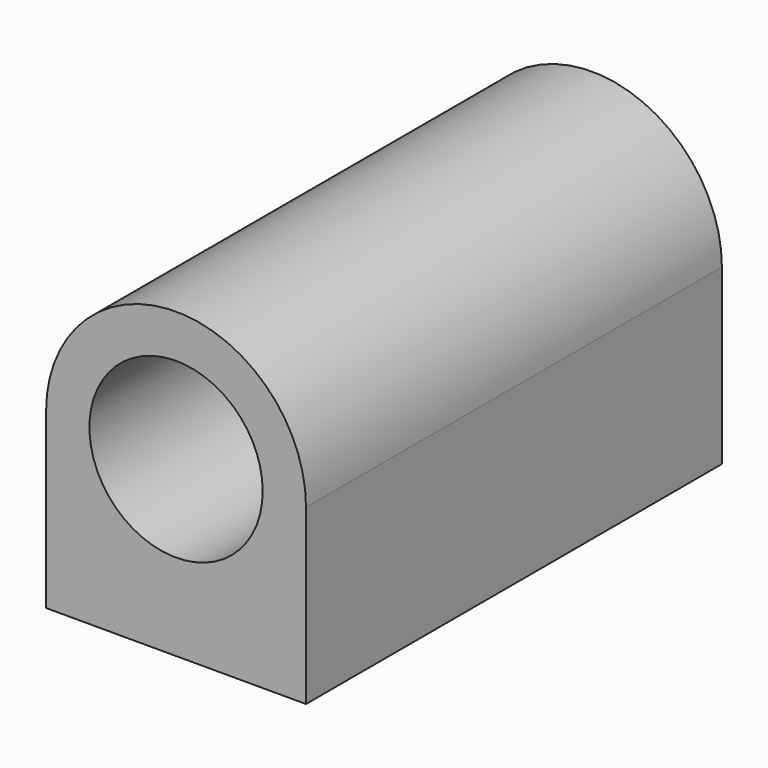
from build123d import *

# Parameters (mm, degrees)
F0_R     = 0.25
F1_DEPTH = 3
F2_R     = 0.065
F3_DEPTH = 0.5
F4_R     = 0.5
F5_DEPTH = 3.001


with BuildPart() as f1:
    # F0 (on Front) → F1 (new body)
    with BuildSketch(Plane.XZ):
        with BuildLine():
            Line((-0.75, 0), (0, 0))
            Line((0, 0), (0.75, 0))
            Line((0.75, 0), (0.75, 1))
            ThreePointArc((0.75, 1), (0, 1.75), (-0.75, 1))
            Line((-0.75, 1), (-0.75, 0))
        make_face()
        with Locations((0, 1)):
            Circle(F0_R, mode=Mode.SUBTRACT)
    extrude(amount=F1_DEPTH)

    # F2 (on face) → F3 (cut)
    with BuildSketch(Plane(origin=(0, 0, 0), x_dir=(1, 0, 0), z_dir=(0, 0, -1))):
        with Locations((-0.5, 2.75)):
            Circle(F2_R)
        with Locations((0.5, 2.75)):
            Circle(F2_R)
        with Locations((0.5, 0.25)):
            Circle(F2_R)
        with Locations((-0.5, 0.25)):
            Circle(F2_R)
    extrude(amount=-F3_DEPTH, mode=Mode.SUBTRACT)

    # F4 (on face) → F5 (cut, through all)
    with BuildSketch(Plane.XZ.offset(3)):
        with Locations((0, 1)):
            Circle(F4_R)
    extrude(amount=-F5_DEPTH, mode=Mode.SUBTRACT)


solid = f1.part
